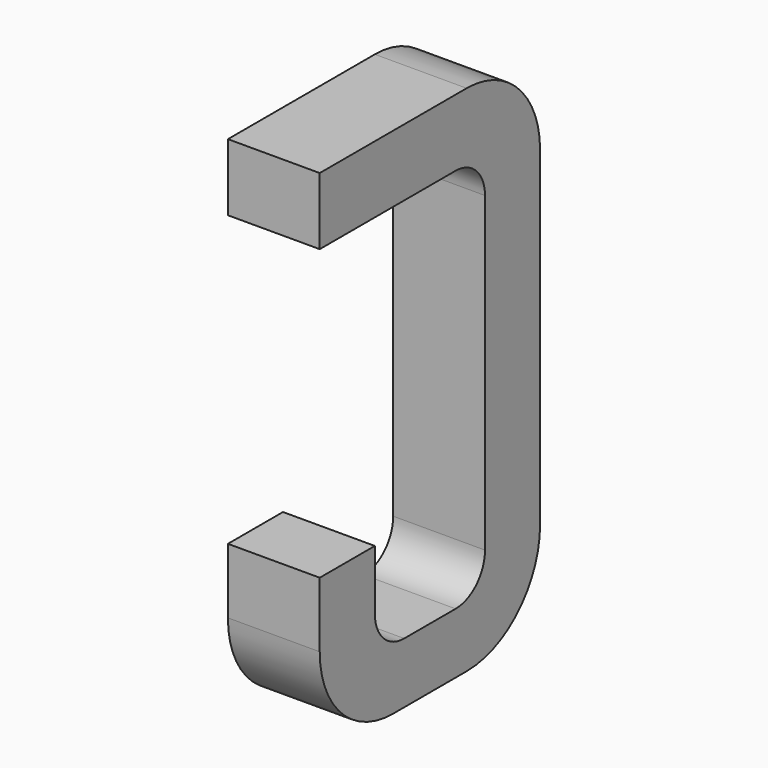
from build123d import *

# Parameters (mm, degrees)
BOX060_W     = 0.5
BOX060_H     = 1.5
BOX060_DEPTH = 2.795
FILLET166_R  = 0.5
FILLET119_R  = 0.5
FILLET176_R  = 0.5
BOX058_W     = 0.75
BOX058_H     = 2.1
BOX058_DEPTH = 1
FILLET178_R  = 0.2
FILLET123_R  = 0.2
FILLET174_R  = 0.2
FILLET175_R  = 0.2
BOX061_W     = 1
BOX061_H     = 1.575
BOX061_DEPTH = 3


with BuildPart() as part:
    # Box060 → Box060 (join)
    with BuildSketch(Plane(origin=(-0.25, 11.125, 0), x_dir=(1, 0, 0), z_dir=(0, 0, 1))):
        with Locations((0.25, 0.75)):
            Rectangle(BOX060_W, BOX060_H)
    extrude(amount=BOX060_DEPTH)

    # Fillet166
    fillet166_edges = [part.edges().sort_by_distance(p)[0] for p in [
        (0, 12.625, 0),
    ]]
    fillet(fillet166_edges, radius=FILLET166_R)

    # Fillet119
    fillet119_edges = [part.edges().sort_by_distance(p)[0] for p in [
        (0, 12.625, 2.795),
    ]]
    fillet(fillet119_edges, radius=FILLET119_R)

    # Fillet176
    fillet176_edges = [part.edges().sort_by_distance(p)[0] for p in [
        (0, 11.125, 0),
    ]]
    fillet(fillet176_edges, radius=FILLET176_R)

    # Box058 → Box058 (cut)
    with BuildSketch(Plane(origin=(-0.5, 11.5, 0.33), x_dir=(0, 1, 0), z_dir=(1, 0, 0))):
        with Locations((0.375, 1.05)):
            Rectangle(BOX058_W, BOX058_H)
    extrude(amount=BOX058_DEPTH, mode=Mode.SUBTRACT)

    # Fillet178
    fillet178_edges = [part.edges().sort_by_distance(p)[0] for p in [
        (0, 11.5, 0.33),
    ]]
    fillet(fillet178_edges, radius=FILLET178_R)

    # Fillet123
    fillet123_edges = [part.edges().sort_by_distance(p)[0] for p in [
        (0, 12.25, 0.33),
    ]]
    fillet(fillet123_edges, radius=FILLET123_R)

    # Fillet174
    fillet174_edges = [part.edges().sort_by_distance(p)[0] for p in [
        (0, 11.5, 2.43),
    ]]
    fillet(fillet174_edges, radius=FILLET174_R)

    # Fillet175
    fillet175_edges = [part.edges().sort_by_distance(p)[0] for p in [
        (0, 12.25, 2.43),
    ]]
    fillet(fillet175_edges, radius=FILLET175_R)

    # Box061 → Box061 (cut)
    with BuildSketch(Plane(origin=(-1, 11, 0.855), x_dir=(0, 1, 0), z_dir=(1, 0, 0))):
        with Locations((0.5, 0.7875)):
            Rectangle(BOX061_W, BOX061_H)
    extrude(amount=BOX061_DEPTH, mode=Mode.SUBTRACT)


with BuildPart() as part_1:
    # Body025 placement: moved
    add(part.part.moved(Location((3.81, 0, 0))))


solid = part_1.part
